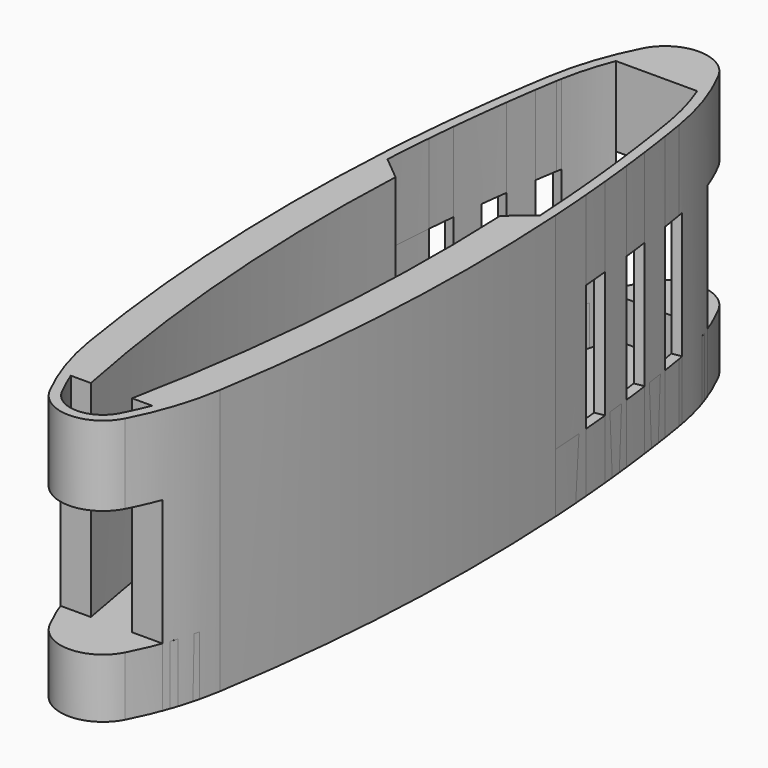
from build123d import *

# Parameters (mm, degrees)
F1_DEPTH = 220
F2_DEPTH = 670
F3_DEPTH = 2100
F5_DEPTH = 900


with BuildPart() as f1:
    # F0 (on Top) → F1 (new body)
    with BuildSketch(Plane.XY):
        with BuildLine():
            ThreePointArc((621.8997322987, 3284.9949504715), (554.7027613608, 3572.9276789751), (460.1189717373, 3853.0608540673))
            Line((460.1189717373, 3853.0608540673), (-460.1189717373, 3853.0608540673))
            ThreePointArc((-460.1189717373, 3853.0608540673), (-554.7027613608, 3572.9276789751), (-621.8997322987, 3284.9949504715))
            ThreePointArc((-621.8997322987, 3284.9949504715), (-627.0933489181, 3255.8379162301), (-632.005452174, 3226.6321369914))
            ThreePointArc((-632.005452174, 3226.6321369914), (-651.8181609048, 3102.8193368394), (-670.8553611531, 2978.8849271082))
            ThreePointArc((-670.8553611531, 2978.8849271082), (-696.1273550676, 2805.7176355798), (-719.8853333269, 2632.3361400253))
            ThreePointArc((-719.8853333269, 2632.3361400253), (-739.6622442322, 2478.6018448044), (-758.2488227971, 2324.7191010374))
            ThreePointArc((-758.2488227971, 2324.7191010374), (-777.8017001701, 2150.8131795795), (-795.8343264161, 1976.7430531293))
            ThreePointArc((-795.8343264161, 1976.7430531293), (-810.5353690337, 1822.4406258057), (-824.0418345742, 1668.0290487766))
            ThreePointArc((-824.0418345742, 1668.0290487766), (-844.8250287331, 1397.234776835), (-861.9343859483, 1126.1835846747))
            Line((-861.9343859484, 1126.1835846747), (-591.9620535791, 903.0608540673))
            Line((-591.9620535791, 903.0608540673), (591.9620535791, 903.0608540673))
            Line((591.9620535791, 903.0608540673), (861.9343859486, 1126.1835846749))
            ThreePointArc((861.9343859483, 1126.183584675), (844.8250287331, 1397.2347768351), (824.0418345742, 1668.0290487766))
            ThreePointArc((824.0418345742, 1668.0290487766), (810.5353690337, 1822.4406258057), (795.8343264161, 1976.7430531293))
            ThreePointArc((795.8343264161, 1976.7430531293), (777.8017001701, 2150.8131795795), (758.2488227971, 2324.7191010374))
            ThreePointArc((758.2488227971, 2324.7191010374), (739.6622442322, 2478.6018448044), (719.8853333269, 2632.3361400253))
            ThreePointArc((719.8853333269, 2632.3361400253), (696.1273550676, 2805.7176355798), (670.8553611531, 2978.8849271082))
            ThreePointArc((670.8553611531, 2978.8849271082), (651.8181609048, 3102.8193368394), (632.005452174, 3226.6321369914))
            ThreePointArc((632.005452174, 3226.6321369914), (627.0933489181, 3255.8379162301), (621.8997322987, 3284.9949504715))
        make_face()
    extrude(amount=F1_DEPTH)


with BuildPart() as f2:
    # F0 (on Top) → F2 (new body)
    with BuildSketch(Plane.XY):
        with BuildLine():
            ThreePointArc((932.9102875589, 1686.1332076133), (919.3382769884, 1840.5390246731), (904.5782583769, 1994.8358090316))
            Line((904.5782583769, 1994.8358090316), (795.8343264161, 1976.7430531293))
            ThreePointArc((795.8343264161, 1976.7430531293), (810.5353690337, 1822.4406258057), (824.0418345742, 1668.0290487766))
            Line((824.0418345742, 1668.0290487766), (932.9102875589, 1686.1332076133))
        make_face()
        with BuildLine():
            ThreePointArc((866.8837142995, 2342.8000620043), (848.2595138062, 2496.678244242), (828.4515159458, 2650.4085243874))
            Line((828.4515159458, 2650.4085243874), (719.8853333269, 2632.3361400253))
            ThreePointArc((719.8853333269, 2632.3361400253), (739.6622442322, 2478.6018448044), (758.2488227971, 2324.7191010374))
            Line((758.2488227971, 2324.7191010374), (866.8837142995, 2342.8000620043))
        make_face()
        with BuildLine():
            ThreePointArc((904.5782583769, 1994.8358090316), (886.4869342001, 2168.8998264299), (866.8837142995, 2342.8000620043))
            Line((866.8837142995, 2342.8000620043), (758.2488227971, 2324.7191010374))
            ThreePointArc((758.2488227971, 2324.7191010374), (777.8017001701, 2150.8131795795), (795.8343264161, 1976.7430531293))
            Line((795.8343264161, 1976.7430531293), (904.5782583769, 1994.8358090316))
        make_face()
        with BuildLine():
            ThreePointArc((967.0534788527, 1213.0608540673), (951.3746530161, 1449.6975516289), (932.9102875589, 1686.1332076133))
            Line((932.9102875589, 1686.1332076133), (824.0418345742, 1668.0290487766))
            ThreePointArc((824.0418345742, 1668.0290487766), (844.8250287331, 1397.2347768351), (861.9343859483, 1126.183584675))
            Line((861.9343859486, 1126.1835846749), (967.0534788527, 1213.0608540673))
        make_face()
        with BuildLine():
            ThreePointArc((1003.6214289231, 0), (994.4773654434, 606.8059514051), (967.0534788527, 1213.0608540673))
            Line((967.0534788527, 1213.0608540673), (861.9343859486, 1126.1835846749))
            ThreePointArc((861.9343859483, 1126.183584675), (867.8959286407, 1014.804983353), (873.2371204275, 903.3949097778))
            ThreePointArc((873.2371204275, 903.3949097778), (873.2446612394, 903.227881954), (873.2522006569, 903.0608540673))
            ThreePointArc((873.2522006569, 903.0608540673), (888.5284743275, 451.6452733088), (893.6214289231, 0))
            ThreePointArc((893.6214289231, 0), (828.1102951716, -1618.6103504825), (632.005452174, -3226.6321369914))
            ThreePointArc((632.005452174, -3226.6321369914), (562.6771304341, -3544.4054817031), (460.1189717373, -3853.0608540673))
            Line((460.1189717373, -3853.0608540673), (577.9652355071, -3853.0608540673))
            ThreePointArc((577.9652355071, -3853.0608540673), (674.3794522246, -3552.7440603031), (740.5686182004, -3244.3532820534))
            ThreePointArc((740.5686182004, -3244.3532820534), (937.7504982517, -1627.5), (1003.6214289231, 0))
        make_face()
        with BuildLine():
            ThreePointArc((873.2371204275, 903.3949097778), (867.8959286407, 1014.804983353), (861.9343859483, 1126.183584675))
            Line((861.9343859486, 1126.1835846749), (591.9620535791, 903.0608540673))
            Line((591.9620535791, 903.0608540673), (873.2522006568, 903.0608540673))
            ThreePointArc((873.2522006569, 903.0608540673), (873.2446612394, 903.227881954), (873.2371204275, 903.3949097778))
        make_face()
        with BuildLine():
            Line((873.2522006568, 903.0608540673), (591.9620535791, 903.0608540673))
            ThreePointArc((591.9620535791, 903.0608540673), (607.455909496, 451.648568009), (612.6214289231, 0))
            ThreePointArc((612.6214289231, 0), (517.506537471, -1935.8545319439), (233.0781109131, -3853.0608540673))
            Line((233.0781109131, -3853.0608540673), (460.1189717373, -3853.0608540673))
            ThreePointArc((460.1189717373, -3853.0608540673), (562.6771304341, -3544.4054817031), (632.005452174, -3226.6321369914))
            ThreePointArc((632.005452174, -3226.6321369914), (828.1102951716, -1618.6103504825), (893.6214289231, 0))
            ThreePointArc((893.6214289231, 0), (888.5284743275, 451.6452733088), (873.2522006569, 903.0608540673))
        make_face()
        with BuildLine():
            ThreePointArc((612.6214289231, 0), (607.455909496, 451.648568009), (591.9620535791, 903.0608540673))
            Line((591.9620535791, 903.0608540673), (-591.9620535791, 903.0608540673))
            ThreePointArc((-591.9620535791, 903.0608540673), (-607.455909496, 451.648568009), (-612.6214289231, 0))
            ThreePointArc((-612.6214289231, 0), (-517.506537471, -1935.8545319439), (-233.0781109131, -3853.0608540673))
            Line((-233.0781109131, -3853.0608540673), (233.0781109131, -3853.0608540673))
            ThreePointArc((233.0781109131, -3853.0608540673), (517.506537471, -1935.8545319439), (612.6214289231, 0))
        make_face()
        with BuildLine():
            ThreePointArc((-612.6214289231, 0), (-607.455909496, 451.648568009), (-591.9620535791, 903.0608540673))
            Line((-591.9620535791, 903.0608540673), (-873.2522006568, 903.0608540673))
            ThreePointArc((-873.2522006568, 903.0608540673), (-888.5284743275, 451.6452733088), (-893.6214289231, 0))
            ThreePointArc((-893.6214289231, 0), (-828.1102951716, -1618.6103504825), (-632.005452174, -3226.6321369914))
            ThreePointArc((-632.005452174, -3226.6321369914), (-562.6771304341, -3544.4054817031), (-460.1189717373, -3853.0608540673))
            Line((-460.1189717373, -3853.0608540673), (-233.0781109131, -3853.0608540673))
            ThreePointArc((-233.0781109131, -3853.0608540673), (-517.506537471, -1935.8545319439), (-612.6214289231, 0))
        make_face()
        with BuildLine():
            Line((-591.9620535791, 903.0608540673), (-861.9343859484, 1126.1835846747))
            ThreePointArc((-861.9343859483, 1126.1835846747), (-867.9043995001, 1014.6380001132), (-873.2522006568, 903.0608540673))
            Line((-873.2522006568, 903.0608540673), (-591.9620535791, 903.0608540673))
        make_face()
        with BuildLine():
            Line((-861.9343859484, 1126.1835846747), (-967.0534788527, 1213.0608540673))
            ThreePointArc((-967.0534788527, 1213.0608540673), (-994.4773654434, 606.8059514051), (-1003.6214289231, 0))
            ThreePointArc((-1003.6214289231, 0), (-937.7504982517, -1627.5), (-740.5686182004, -3244.3532820534))
            ThreePointArc((-740.5686182004, -3244.3532820534), (-674.3794522246, -3552.7440603031), (-577.9652355071, -3853.0608540673))
            Line((-577.9652355071, -3853.0608540673), (-460.1189717373, -3853.0608540673))
            ThreePointArc((-460.1189717373, -3853.0608540673), (-562.6771304341, -3544.4054817031), (-632.005452174, -3226.6321369914))
            ThreePointArc((-632.005452174, -3226.6321369914), (-828.1102951716, -1618.6103504825), (-893.6214289231, 0))
            ThreePointArc((-893.6214289231, 0), (-888.5284743275, 451.6452733088), (-873.2522006568, 903.0608540673))
            ThreePointArc((-873.2522006568, 903.0608540673), (-867.9043995001, 1014.6380001132), (-861.9343859483, 1126.1835846747))
        make_face()
        with BuildLine():
            ThreePointArc((328.6002639259, -4143.1251552825), (398.1236309127, -3999.7996543197), (460.1189717373, -3853.0608540673))
            Line((460.1189717373, -3853.0608540673), (233.0781109131, -3853.0608540673))
            Line((233.0781109131, -3853.0608540673), (-233.0781109131, -3853.0608540673))
            Line((-233.0781109131, -3853.0608540673), (-460.1189717373, -3853.0608540673))
            ThreePointArc((-460.1189717373, -3853.0608540673), (-398.1236309127, -3999.7996543197), (-328.6002639259, -4143.1251552825))
            ThreePointArc((-328.6002639259, -4143.1251552825), (-192.3229166667, -4289.1492842966), (0, -4343.0608540673))
            ThreePointArc((0, -4343.0608540673), (192.3229166667, -4289.1492842966), (328.6002639259, -4143.1251552825))
        make_face()
        with BuildLine():
            ThreePointArc((426.2922342822, -4193.6848124006), (507.12545518, -4025.59777233), (577.9652355071, -3853.0608540673))
            Line((577.9652355071, -3853.0608540673), (460.1189717373, -3853.0608540673))
            ThreePointArc((460.1189717373, -3853.0608540673), (398.1236309127, -3999.7996543197), (328.6002639259, -4143.1251552825))
            ThreePointArc((328.6002639259, -4143.1251552825), (192.3229166667, -4289.1492842966), (0, -4343.0608540673))
            ThreePointArc((0, -4343.0608540673), (-192.3229166667, -4289.1492842966), (-328.6002639259, -4143.1251552825))
            ThreePointArc((-328.6002639259, -4143.1251552825), (-398.1236309127, -3999.7996543197), (-460.1189717373, -3853.0608540673))
            Line((-460.1189717373, -3853.0608540673), (-577.9652355071, -3853.0608540673))
            ThreePointArc((-577.9652355071, -3853.0608540673), (-507.12545518, -4025.59777233), (-426.2922342822, -4193.6848124006))
            ThreePointArc((-426.2922342822, -4193.6848124006), (-249.5, -4383.1215203107), (0, -4453.0608540673))
            ThreePointArc((0, -4453.0608540673), (249.5, -4383.1215203107), (426.2922342822, -4193.6848124006))
        make_face()
        with BuildLine():
            Line((-460.1189717373, 3853.0608540673), (460.1189717373, 3853.0608540673))
            ThreePointArc((460.1189717373, 3853.0608540673), (398.1236309127, 3999.7996543197), (328.6002639259, 4143.1251552825))
            ThreePointArc((328.6002639259, 4143.1251552825), (192.3229166667, 4289.1492842966), (0, 4343.0608540673))
            ThreePointArc((0, 4343.0608540673), (-192.3229166667, 4289.1492842966), (-328.6002639259, 4143.1251552825))
            ThreePointArc((-328.6002639259, 4143.1251552825), (-398.1236309127, 3999.7996543197), (-460.1189717373, 3853.0608540673))
        make_face()
        with BuildLine():
            ThreePointArc((577.9652355071, 3853.0608540673), (507.12545518, 4025.59777233), (426.2922342822, 4193.6848124006))
            ThreePointArc((426.2922342822, 4193.6848124006), (249.5, 4383.1215203107), (0, 4453.0608540673))
            ThreePointArc((0, 4453.0608540673), (-249.5, 4383.1215203107), (-426.2922342822, 4193.6848124006))
            ThreePointArc((-426.2922342822, 4193.6848124006), (-507.12545518, 4025.59777233), (-577.9652355071, 3853.0608540673))
            Line((-577.9652355071, 3853.0608540673), (-460.1189717373, 3853.0608540673))
            ThreePointArc((-460.1189717373, 3853.0608540673), (-398.1236309127, 3999.7996543197), (-328.6002639259, 4143.1251552825))
            ThreePointArc((-328.6002639259, 4143.1251552825), (-192.3229166667, 4289.1492842966), (0, 4343.0608540673))
            ThreePointArc((0, 4343.0608540673), (192.3229166667, 4289.1492842966), (328.6002639259, 4143.1251552825))
            ThreePointArc((328.6002639259, 4143.1251552825), (398.1236309127, 3999.7996543197), (460.1189717373, 3853.0608540673))
            Line((460.1189717373, 3853.0608540673), (577.9652355071, 3853.0608540673))
        make_face()
        with BuildLine():
            ThreePointArc((730.4200806645, 3303.0608540673), (666.5566804597, 3581.4880451882), (577.9652355071, 3853.0608540673))
            Line((577.9652355071, 3853.0608540673), (460.1189717373, 3853.0608540673))
            ThreePointArc((460.1189717373, 3853.0608540673), (554.7027613608, 3572.9276789751), (621.8997322987, 3284.9949504715))
            Line((621.8997322987, 3284.9949504715), (730.4200806645, 3303.0608540673))
        make_face()
        with BuildLine():
            ThreePointArc((740.5686182004, 3244.3532820534), (735.6318405129, 3273.7308355803), (730.4200806645, 3303.0608540673))
            Line((730.4200806645, 3303.0608540673), (621.8997322987, 3284.9949504715))
            ThreePointArc((621.8997322987, 3284.9949504715), (627.0933489181, 3255.8379162301), (632.005452174, 3226.6321369914))
            ThreePointArc((632.005452174, 3226.6321369914), (651.8181609048, 3102.8193368394), (670.8553611531, 2978.8849271082))
            Line((670.8553611531, 2978.8849271082), (779.3753278656, 2996.9507696671))
            ThreePointArc((779.3753278656, 2996.9507696671), (760.3565394873, 3120.7123476355), (740.5686182004, 3244.3532820534))
        make_face()
        with BuildLine():
            ThreePointArc((828.4515159458, 2650.4085243874), (804.6662804742, 2823.7862644143), (779.3753278656, 2996.9507696671))
            Line((779.3753278656, 2996.9507696671), (670.8553611531, 2978.8849271082))
            ThreePointArc((670.8553611531, 2978.8849271082), (696.1273550676, 2805.7176355798), (719.8853333269, 2632.3361400253))
            Line((719.8853333269, 2632.3361400253), (828.4515159458, 2650.4085243874))
        make_face()
        with BuildLine():
            Line((-460.1189717373, 3853.0608540673), (-577.9652355071, 3853.0608540673))
            ThreePointArc((-577.9652355071, 3853.0608540673), (-666.5566804597, 3581.4880451882), (-730.4200806645, 3303.0608540673))
            Line((-730.4200806645, 3303.0608540673), (-621.8997322987, 3284.9949504715))
            ThreePointArc((-621.8997322987, 3284.9949504715), (-554.7027613608, 3572.9276789751), (-460.1189717373, 3853.0608540673))
        make_face()
        with BuildLine():
            Line((-621.8997322987, 3284.9949504715), (-730.4200806645, 3303.0608540673))
            ThreePointArc((-730.4200806645, 3303.0608540673), (-735.6318405129, 3273.7308355803), (-740.5686182004, 3244.3532820534))
            ThreePointArc((-740.5686182004, 3244.3532820534), (-760.3565394873, 3120.7123476355), (-779.3753278656, 2996.9507696671))
            Line((-779.3753278656, 2996.9507696671), (-670.8553611531, 2978.8849271082))
            ThreePointArc((-670.8553611531, 2978.8849271082), (-651.8181609048, 3102.8193368394), (-632.005452174, 3226.6321369914))
            ThreePointArc((-632.005452174, 3226.6321369914), (-627.0933489181, 3255.8379162301), (-621.8997322987, 3284.9949504715))
        make_face()
        with BuildLine():
            Line((-670.8553611531, 2978.8849271082), (-779.3753278656, 2996.9507696671))
            ThreePointArc((-779.3753278656, 2996.9507696671), (-804.6662804742, 2823.7862644143), (-828.4515159458, 2650.4085243874))
            Line((-828.4515159458, 2650.4085243874), (-719.8853333269, 2632.3361400253))
            ThreePointArc((-719.8853333269, 2632.3361400253), (-696.1273550676, 2805.7176355798), (-670.8553611531, 2978.8849271082))
        make_face()
        with BuildLine():
            Line((-719.8853333269, 2632.3361400253), (-828.4515159458, 2650.4085243874))
            ThreePointArc((-828.4515159458, 2650.4085243874), (-848.2595138062, 2496.678244242), (-866.8837142995, 2342.8000620043))
            Line((-866.8837142995, 2342.8000620043), (-758.2488227971, 2324.7191010374))
            ThreePointArc((-758.2488227971, 2324.7191010374), (-739.6622442322, 2478.6018448044), (-719.8853333269, 2632.3361400253))
        make_face()
        with BuildLine():
            Line((-758.2488227971, 2324.7191010374), (-866.8837142995, 2342.8000620043))
            ThreePointArc((-866.8837142995, 2342.8000620043), (-886.4869342001, 2168.8998264299), (-904.5782583769, 1994.8358090316))
            Line((-904.5782583769, 1994.8358090316), (-795.8343264161, 1976.7430531293))
            ThreePointArc((-795.8343264161, 1976.7430531293), (-777.8017001701, 2150.8131795795), (-758.2488227971, 2324.7191010374))
        make_face()
        with BuildLine():
            Line((-795.8343264161, 1976.7430531293), (-904.5782583769, 1994.8358090316))
            ThreePointArc((-904.5782583769, 1994.8358090316), (-919.3382769884, 1840.5390246731), (-932.9102875589, 1686.1332076133))
            Line((-932.9102875589, 1686.1332076133), (-824.0418345742, 1668.0290487766))
            ThreePointArc((-824.0418345742, 1668.0290487766), (-810.5353690337, 1822.4406258057), (-795.8343264161, 1976.7430531293))
        make_face()
        with BuildLine():
            Line((-824.0418345742, 1668.0290487766), (-932.9102875589, 1686.1332076133))
            ThreePointArc((-932.9102875589, 1686.1332076133), (-951.3746530161, 1449.6975516289), (-967.0534788527, 1213.0608540673))
            Line((-967.0534788527, 1213.0608540673), (-861.9343859484, 1126.1835846747))
            ThreePointArc((-861.9343859483, 1126.1835846747), (-844.8250287331, 1397.234776835), (-824.0418345742, 1668.0290487766))
        make_face()
    extrude(amount=F2_DEPTH)


with BuildPart() as f3:
    # F0 (on Top) → F3 (new body)
    with BuildSketch(Plane.XY):
        with BuildLine():
            ThreePointArc((967.0534788527, 1213.0608540673), (951.3746530161, 1449.6975516289), (932.9102875589, 1686.1332076133))
            Line((932.9102875589, 1686.1332076133), (824.0418345742, 1668.0290487766))
            ThreePointArc((824.0418345742, 1668.0290487766), (844.8250287331, 1397.2347768351), (861.9343859483, 1126.183584675))
            Line((861.9343859486, 1126.1835846749), (967.0534788527, 1213.0608540673))
        make_face()
        with BuildLine():
            ThreePointArc((1003.6214289231, 0), (994.4773654434, 606.8059514051), (967.0534788527, 1213.0608540673))
            Line((967.0534788527, 1213.0608540673), (861.9343859486, 1126.1835846749))
            ThreePointArc((861.9343859483, 1126.183584675), (867.8959286407, 1014.804983353), (873.2371204275, 903.3949097778))
            ThreePointArc((873.2371204275, 903.3949097778), (873.2446612394, 903.227881954), (873.2522006569, 903.0608540673))
            ThreePointArc((873.2522006569, 903.0608540673), (888.5284743275, 451.6452733088), (893.6214289231, 0))
            ThreePointArc((893.6214289231, 0), (828.1102951716, -1618.6103504825), (632.005452174, -3226.6321369914))
            ThreePointArc((632.005452174, -3226.6321369914), (562.6771304341, -3544.4054817031), (460.1189717373, -3853.0608540673))
            Line((460.1189717373, -3853.0608540673), (577.9652355071, -3853.0608540673))
            ThreePointArc((577.9652355071, -3853.0608540673), (674.3794522246, -3552.7440603031), (740.5686182004, -3244.3532820534))
            ThreePointArc((740.5686182004, -3244.3532820534), (937.7504982517, -1627.5), (1003.6214289231, 0))
        make_face()
        with BuildLine():
            ThreePointArc((873.2371204275, 903.3949097778), (867.8959286407, 1014.804983353), (861.9343859483, 1126.183584675))
            Line((861.9343859486, 1126.1835846749), (591.9620535791, 903.0608540673))
            Line((591.9620535791, 903.0608540673), (873.2522006568, 903.0608540673))
            ThreePointArc((873.2522006569, 903.0608540673), (873.2446612394, 903.227881954), (873.2371204275, 903.3949097778))
        make_face()
        with BuildLine():
            Line((873.2522006568, 903.0608540673), (591.9620535791, 903.0608540673))
            ThreePointArc((591.9620535791, 903.0608540673), (607.455909496, 451.648568009), (612.6214289231, 0))
            ThreePointArc((612.6214289231, 0), (517.506537471, -1935.8545319439), (233.0781109131, -3853.0608540673))
            Line((233.0781109131, -3853.0608540673), (460.1189717373, -3853.0608540673))
            ThreePointArc((460.1189717373, -3853.0608540673), (562.6771304341, -3544.4054817031), (632.005452174, -3226.6321369914))
            ThreePointArc((632.005452174, -3226.6321369914), (828.1102951716, -1618.6103504825), (893.6214289231, 0))
            ThreePointArc((893.6214289231, 0), (888.5284743275, 451.6452733088), (873.2522006569, 903.0608540673))
        make_face()
    extrude(amount=F3_DEPTH)



with BuildPart() as f3b:
    # F0 (on Top) → F3, piece 2 (new body)
    with BuildSketch(Plane.XY):
        with BuildLine():
            ThreePointArc((-612.6214289231, 0), (-607.455909496, 451.648568009), (-591.9620535791, 903.0608540673))
            Line((-591.9620535791, 903.0608540673), (-873.2522006568, 903.0608540673))
            ThreePointArc((-873.2522006568, 903.0608540673), (-888.5284743275, 451.6452733088), (-893.6214289231, 0))
            ThreePointArc((-893.6214289231, 0), (-828.1102951716, -1618.6103504825), (-632.005452174, -3226.6321369914))
            ThreePointArc((-632.005452174, -3226.6321369914), (-562.6771304341, -3544.4054817031), (-460.1189717373, -3853.0608540673))
            Line((-460.1189717373, -3853.0608540673), (-233.0781109131, -3853.0608540673))
            ThreePointArc((-233.0781109131, -3853.0608540673), (-517.506537471, -1935.8545319439), (-612.6214289231, 0))
        make_face()
        with BuildLine():
            Line((-861.9343859484, 1126.1835846747), (-967.0534788527, 1213.0608540673))
            ThreePointArc((-967.0534788527, 1213.0608540673), (-994.4773654434, 606.8059514051), (-1003.6214289231, 0))
            ThreePointArc((-1003.6214289231, 0), (-937.7504982517, -1627.5), (-740.5686182004, -3244.3532820534))
            ThreePointArc((-740.5686182004, -3244.3532820534), (-674.3794522246, -3552.7440603031), (-577.9652355071, -3853.0608540673))
            Line((-577.9652355071, -3853.0608540673), (-460.1189717373, -3853.0608540673))
            ThreePointArc((-460.1189717373, -3853.0608540673), (-562.6771304341, -3544.4054817031), (-632.005452174, -3226.6321369914))
            ThreePointArc((-632.005452174, -3226.6321369914), (-828.1102951716, -1618.6103504825), (-893.6214289231, 0))
            ThreePointArc((-893.6214289231, 0), (-888.5284743275, 451.6452733088), (-873.2522006568, 903.0608540673))
            ThreePointArc((-873.2522006568, 903.0608540673), (-867.9043995001, 1014.6380001132), (-861.9343859483, 1126.1835846747))
        make_face()
        with BuildLine():
            Line((-591.9620535791, 903.0608540673), (-861.9343859484, 1126.1835846747))
            ThreePointArc((-861.9343859483, 1126.1835846747), (-867.9043995001, 1014.6380001132), (-873.2522006568, 903.0608540673))
            Line((-873.2522006568, 903.0608540673), (-591.9620535791, 903.0608540673))
        make_face()
        with BuildLine():
            Line((-824.0418345742, 1668.0290487766), (-932.9102875589, 1686.1332076133))
            ThreePointArc((-932.9102875589, 1686.1332076133), (-951.3746530161, 1449.6975516289), (-967.0534788527, 1213.0608540673))
            Line((-967.0534788527, 1213.0608540673), (-861.9343859484, 1126.1835846747))
            ThreePointArc((-861.9343859483, 1126.1835846747), (-844.8250287331, 1397.234776835), (-824.0418345742, 1668.0290487766))
        make_face()
    extrude(amount=F3_DEPTH)


with BuildPart() as f3c:
    # F0 (on Top) → F3, piece 3 (new body)
    with BuildSketch(Plane.XY):
        with BuildLine():
            ThreePointArc((904.5782583769, 1994.8358090316), (886.4869342001, 2168.8998264299), (866.8837142995, 2342.8000620043))
            Line((866.8837142995, 2342.8000620043), (758.2488227971, 2324.7191010374))
            ThreePointArc((758.2488227971, 2324.7191010374), (777.8017001701, 2150.8131795795), (795.8343264161, 1976.7430531293))
            Line((795.8343264161, 1976.7430531293), (904.5782583769, 1994.8358090316))
        make_face()
    extrude(amount=F3_DEPTH)


with BuildPart() as f3d:
    # F0 (on Top) → F3, piece 4 (new body)
    with BuildSketch(Plane.XY):
        with BuildLine():
            ThreePointArc((828.4515159458, 2650.4085243874), (804.6662804742, 2823.7862644143), (779.3753278656, 2996.9507696671))
            Line((779.3753278656, 2996.9507696671), (670.8553611531, 2978.8849271082))
            ThreePointArc((670.8553611531, 2978.8849271082), (696.1273550676, 2805.7176355798), (719.8853333269, 2632.3361400253))
            Line((719.8853333269, 2632.3361400253), (828.4515159458, 2650.4085243874))
        make_face()
    extrude(amount=F3_DEPTH)


with BuildPart() as f3e:
    # F0 (on Top) → F3, piece 5 (new body)
    with BuildSketch(Plane.XY):
        with BuildLine():
            ThreePointArc((730.4200806645, 3303.0608540673), (666.5566804597, 3581.4880451882), (577.9652355071, 3853.0608540673))
            Line((577.9652355071, 3853.0608540673), (460.1189717373, 3853.0608540673))
            ThreePointArc((460.1189717373, 3853.0608540673), (554.7027613608, 3572.9276789751), (621.8997322987, 3284.9949504715))
            Line((621.8997322987, 3284.9949504715), (730.4200806645, 3303.0608540673))
        make_face()
    extrude(amount=F3_DEPTH)


with BuildPart() as f3f:
    # F0 (on Top) → F3, piece 6 (new body)
    with BuildSketch(Plane.XY):
        with BuildLine():
            Line((-758.2488227971, 2324.7191010374), (-866.8837142995, 2342.8000620043))
            ThreePointArc((-866.8837142995, 2342.8000620043), (-886.4869342001, 2168.8998264299), (-904.5782583769, 1994.8358090316))
            Line((-904.5782583769, 1994.8358090316), (-795.8343264161, 1976.7430531293))
            ThreePointArc((-795.8343264161, 1976.7430531293), (-777.8017001701, 2150.8131795795), (-758.2488227971, 2324.7191010374))
        make_face()
    extrude(amount=F3_DEPTH)


with BuildPart() as f3g:
    # F0 (on Top) → F3, piece 7 (new body)
    with BuildSketch(Plane.XY):
        with BuildLine():
            Line((-670.8553611531, 2978.8849271082), (-779.3753278656, 2996.9507696671))
            ThreePointArc((-779.3753278656, 2996.9507696671), (-804.6662804742, 2823.7862644143), (-828.4515159458, 2650.4085243874))
            Line((-828.4515159458, 2650.4085243874), (-719.8853333269, 2632.3361400253))
            ThreePointArc((-719.8853333269, 2632.3361400253), (-696.1273550676, 2805.7176355798), (-670.8553611531, 2978.8849271082))
        make_face()
    extrude(amount=F3_DEPTH)


with BuildPart() as f3h:
    # F0 (on Top) → F3, piece 8 (new body)
    with BuildSketch(Plane.XY):
        with BuildLine():
            Line((-460.1189717373, 3853.0608540673), (-577.9652355071, 3853.0608540673))
            ThreePointArc((-577.9652355071, 3853.0608540673), (-666.5566804597, 3581.4880451882), (-730.4200806645, 3303.0608540673))
            Line((-730.4200806645, 3303.0608540673), (-621.8997322987, 3284.9949504715))
            ThreePointArc((-621.8997322987, 3284.9949504715), (-554.7027613608, 3572.9276789751), (-460.1189717373, 3853.0608540673))
        make_face()
    extrude(amount=F3_DEPTH)


with BuildPart() as f3_1:
    add(f3.part)

    add(f3b.part)  # F5 merges F3b

    add(f3c.part)  # F5 merges F3c

    add(f3d.part)  # F5 merges F3d

    add(f3e.part)  # F5 merges F3e

    add(f3f.part)  # F5 merges F3f

    add(f3g.part)  # F5 merges F3g

    add(f3h.part)  # F5 merges F3h
    # F4 (on face) → F5 (join)
    with BuildSketch(Plane.XY.offset(2100)):
        with BuildLine():
            Line((873.2522006568, 903.0608540673), (591.9620535791, 903.0608540673))
            ThreePointArc((591.9620535791, 903.0608540673), (607.455909496, 451.648568009), (612.6214289231, 0))
            ThreePointArc((612.6214289231, 0), (517.506537471, -1935.8545319439), (233.0781109131, -3853.0608540673))
            Line((233.0781109129, -3853.0608540673), (460.1189717373, -3853.0608540673))
            ThreePointArc((460.1189717373, -3853.0608540673), (562.6771304341, -3544.4054817031), (632.005452174, -3226.6321369914))
            ThreePointArc((632.005452174, -3226.6321369914), (828.1102951716, -1618.6103504825), (893.6214289231, 0))
            ThreePointArc((893.6214289231, 0), (888.5284743275, 451.6452733088), (873.2522006569, 903.0608540673))
        make_face()
        with BuildLine():
            ThreePointArc((1003.6214289231, 0), (994.4773654434, 606.8059514051), (967.0534788527, 1213.0608540673))
            Line((967.0534788527, 1213.0608540673), (861.9343859485, 1126.1835846749))
            ThreePointArc((861.9343859483, 1126.1835846749), (867.8959286407, 1014.8049833529), (873.2371204275, 903.3949097778))
            ThreePointArc((873.2371204275, 903.3949097778), (873.2446612394, 903.227881954), (873.2522006569, 903.0608540673))
            ThreePointArc((873.2522006569, 903.0608540673), (888.5284743275, 451.6452733088), (893.6214289231, 0))
            ThreePointArc((893.6214289231, 0), (828.1102951716, -1618.6103504825), (632.005452174, -3226.6321369914))
            ThreePointArc((632.005452174, -3226.6321369914), (562.6771304341, -3544.4054817031), (460.1189717373, -3853.0608540673))
            Line((460.1189717373, -3853.0608540673), (577.9652355071, -3853.0608540673))
            ThreePointArc((577.9652355071, -3853.0608540673), (674.3794522246, -3552.7440603031), (740.5686182004, -3244.3532820534))
            ThreePointArc((740.5686182004, -3244.3532820534), (937.7504982517, -1627.5), (1003.6214289231, 0))
        make_face()
        with BuildLine():
            ThreePointArc((873.2371204275, 903.3949097778), (867.8959286407, 1014.8049833529), (861.9343859483, 1126.1835846749))
            Line((861.9343859485, 1126.1835846749), (591.9620535791, 903.0608540673))
            Line((591.9620535791, 903.0608540673), (873.2522006568, 903.0608540673))
            ThreePointArc((873.2522006569, 903.0608540673), (873.2446612394, 903.227881954), (873.2371204275, 903.3949097778))
        make_face()
        with BuildLine():
            ThreePointArc((-612.6214289231, 0), (-607.455909496, 451.648568009), (-591.9620535791, 903.0608540673))
            Line((-591.9620535791, 903.0608540673), (-873.2522006568, 903.0608540673))
            ThreePointArc((-873.2522006568, 903.0608540673), (-888.5284743275, 451.6452733088), (-893.6214289231, 0))
            ThreePointArc((-893.6214289231, 0), (-828.1102951716, -1618.6103504825), (-632.005452174, -3226.6321369914))
            ThreePointArc((-632.005452174, -3226.6321369914), (-562.6771304341, -3544.4054817031), (-460.1189717373, -3853.0608540673))
            Line((-460.1189717373, -3853.0608540673), (-233.0781109131, -3853.0608540673))
            ThreePointArc((-233.0781109131, -3853.0608540673), (-517.506537471, -1935.8545319439), (-612.6214289231, 0))
        make_face()
        with BuildLine():
            Line((-861.9343859484, 1126.1835846747), (-967.0534788527, 1213.0608540673))
            ThreePointArc((-967.0534788527, 1213.0608540673), (-994.4773654434, 606.8059514051), (-1003.6214289231, 0))
            ThreePointArc((-1003.6214289231, 0), (-937.7504982517, -1627.5), (-740.5686182004, -3244.3532820534))
            ThreePointArc((-740.5686182004, -3244.3532820534), (-674.3794522246, -3552.7440603031), (-577.9652355071, -3853.0608540673))
            Line((-577.9652355071, -3853.0608540673), (-460.1189717373, -3853.0608540673))
            ThreePointArc((-460.1189717373, -3853.0608540673), (-562.6771304341, -3544.4054817031), (-632.005452174, -3226.6321369914))
            ThreePointArc((-632.005452174, -3226.6321369914), (-828.1102951716, -1618.6103504825), (-893.6214289231, 0))
            ThreePointArc((-893.6214289231, 0), (-888.5284743275, 451.6452733088), (-873.2522006568, 903.0608540673))
            ThreePointArc((-873.2522006568, 903.0608540673), (-867.9043995001, 1014.6380001132), (-861.9343859484, 1126.1835846747))
        make_face()
        with BuildLine():
            Line((-591.9620535791, 903.0608540673), (-861.9343859484, 1126.1835846747))
            ThreePointArc((-861.9343859484, 1126.1835846747), (-867.9043995001, 1014.6380001132), (-873.2522006568, 903.0608540673))
            Line((-873.2522006568, 903.0608540673), (-591.9620535791, 903.0608540673))
        make_face()
        with BuildLine():
            ThreePointArc((426.2922342822, -4193.6848124006), (507.12545518, -4025.59777233), (577.9652355071, -3853.0608540673))
            Line((577.9652355071, -3853.0608540673), (460.1189717373, -3853.0608540673))
            ThreePointArc((460.1189717373, -3853.0608540673), (398.1236309127, -3999.7996543197), (328.6002639259, -4143.1251552825))
            ThreePointArc((328.6002639259, -4143.1251552825), (192.3229166667, -4289.1492842966), (0, -4343.0608540673))
            ThreePointArc((0, -4343.0608540673), (-192.3229166667, -4289.1492842966), (-328.6002639259, -4143.1251552825))
            ThreePointArc((-328.6002639259, -4143.1251552825), (-398.1236309127, -3999.7996543197), (-460.1189717373, -3853.0608540673))
            Line((-460.1189717373, -3853.0608540673), (-577.9652355071, -3853.0608540673))
            ThreePointArc((-577.9652355071, -3853.0608540673), (-507.12545518, -4025.59777233), (-426.2922342822, -4193.6848124006))
            ThreePointArc((-426.2922342822, -4193.6848124006), (-249.5, -4383.1215203107), (0, -4453.0608540673))
            ThreePointArc((0, -4453.0608540673), (249.5, -4383.1215203107), (426.2922342822, -4193.6848124006))
        make_face()
        with BuildLine():
            Line((-824.0418345742, 1668.0290487766), (-932.9102875589, 1686.1332076133))
            ThreePointArc((-932.9102875589, 1686.1332076133), (-951.3746530161, 1449.6975516289), (-967.0534788527, 1213.0608540673))
            Line((-967.0534788527, 1213.0608540673), (-861.9343859484, 1126.1835846747))
            ThreePointArc((-861.9343859484, 1126.1835846747), (-844.8250287331, 1397.234776835), (-824.0418345742, 1668.0290487766))
        make_face()
        with BuildLine():
            Line((-795.8343264161, 1976.7430531293), (-904.5782583769, 1994.8358090316))
            ThreePointArc((-904.5782583769, 1994.8358090316), (-919.3382769884, 1840.5390246731), (-932.9102875589, 1686.1332076133))
            Line((-932.9102875589, 1686.1332076133), (-824.0418345742, 1668.0290487766))
            ThreePointArc((-824.0418345742, 1668.0290487766), (-810.5353690337, 1822.4406258057), (-795.8343264161, 1976.7430531293))
        make_face()
        with BuildLine():
            Line((-758.2488227971, 2324.7191010374), (-866.8837142995, 2342.8000620043))
            ThreePointArc((-866.8837142995, 2342.8000620043), (-886.4869342001, 2168.8998264299), (-904.5782583769, 1994.8358090316))
            Line((-904.5782583769, 1994.8358090316), (-795.8343264161, 1976.7430531293))
            ThreePointArc((-795.8343264161, 1976.7430531293), (-777.8017001701, 2150.8131795795), (-758.2488227971, 2324.7191010374))
        make_face()
        with BuildLine():
            Line((-719.8853333269, 2632.3361400253), (-828.4515159458, 2650.4085243874))
            ThreePointArc((-828.4515159458, 2650.4085243874), (-848.2595138062, 2496.678244242), (-866.8837142995, 2342.8000620043))
            Line((-866.8837142995, 2342.8000620043), (-758.2488227971, 2324.7191010374))
            ThreePointArc((-758.2488227971, 2324.7191010374), (-739.6622442322, 2478.6018448044), (-719.8853333269, 2632.3361400253))
        make_face()
        with BuildLine():
            Line((-670.8553611531, 2978.8849271082), (-779.3753278656, 2996.9507696671))
            ThreePointArc((-779.3753278656, 2996.9507696671), (-804.6662804742, 2823.7862644143), (-828.4515159458, 2650.4085243874))
            Line((-828.4515159458, 2650.4085243874), (-719.8853333269, 2632.3361400253))
            ThreePointArc((-719.8853333269, 2632.3361400253), (-696.1273550676, 2805.7176355798), (-670.8553611531, 2978.8849271082))
        make_face()
        with BuildLine():
            ThreePointArc((967.0534788527, 1213.0608540673), (951.3746530161, 1449.6975516289), (932.9102875589, 1686.1332076133))
            Line((932.9102875589, 1686.1332076133), (824.0418345742, 1668.0290487766))
            ThreePointArc((824.0418345742, 1668.0290487766), (844.8250287331, 1397.2347768351), (861.9343859483, 1126.1835846749))
            Line((861.9343859485, 1126.1835846749), (967.0534788527, 1213.0608540673))
        make_face()
        with BuildLine():
            ThreePointArc((932.9102875589, 1686.1332076133), (919.3382769884, 1840.5390246731), (904.5782583769, 1994.8358090316))
            Line((904.5782583769, 1994.8358090316), (795.8343264161, 1976.7430531293))
            ThreePointArc((795.8343264161, 1976.7430531293), (810.5353690337, 1822.4406258057), (824.0418345742, 1668.0290487766))
            Line((824.0418345742, 1668.0290487766), (932.9102875589, 1686.1332076133))
        make_face()
        with BuildLine():
            ThreePointArc((904.5782583769, 1994.8358090316), (886.4869342001, 2168.8998264299), (866.8837142995, 2342.8000620043))
            Line((866.8837142995, 2342.8000620043), (758.2488227971, 2324.7191010374))
            ThreePointArc((758.2488227971, 2324.7191010374), (777.8017001701, 2150.8131795795), (795.8343264161, 1976.7430531293))
            Line((795.8343264161, 1976.7430531293), (904.5782583769, 1994.8358090316))
        make_face()
        with BuildLine():
            ThreePointArc((866.8837142995, 2342.8000620043), (848.2595138062, 2496.678244242), (828.4515159458, 2650.4085243874))
            Line((828.4515159458, 2650.4085243874), (719.8853333269, 2632.3361400253))
            ThreePointArc((719.8853333269, 2632.3361400253), (739.6622442322, 2478.6018448044), (758.2488227971, 2324.7191010374))
            Line((758.2488227971, 2324.7191010374), (866.8837142995, 2342.8000620043))
        make_face()
        with BuildLine():
            ThreePointArc((828.4515159458, 2650.4085243874), (804.6662804742, 2823.7862644143), (779.3753278656, 2996.9507696671))
            Line((779.3753278656, 2996.9507696671), (670.8553611531, 2978.8849271082))
            ThreePointArc((670.8553611531, 2978.8849271082), (696.1273550676, 2805.7176355798), (719.8853333269, 2632.3361400253))
            Line((719.8853333269, 2632.3361400253), (828.4515159458, 2650.4085243874))
        make_face()
        with BuildLine():
            ThreePointArc((740.5686182004, 3244.3532820534), (735.6318405129, 3273.7308355803), (730.4200806645, 3303.0608540673))
            Line((730.4200806645, 3303.0608540673), (621.8997322987, 3284.9949504715))
            ThreePointArc((621.8997322987, 3284.9949504715), (627.0933489181, 3255.8379162302), (632.005452174, 3226.6321369914))
            ThreePointArc((632.005452174, 3226.6321369914), (651.8181609048, 3102.8193368394), (670.8553611531, 2978.8849271082))
            Line((670.8553611531, 2978.8849271082), (779.3753278656, 2996.9507696671))
            ThreePointArc((779.3753278656, 2996.9507696671), (760.3565394873, 3120.7123476355), (740.5686182004, 3244.3532820534))
        make_face()
        with BuildLine():
            ThreePointArc((730.4200806645, 3303.0608540673), (666.5566804597, 3581.4880451882), (577.9652355071, 3853.0608540673))
            Line((577.9652355071, 3853.0608540673), (460.1189717373, 3853.0608540673))
            ThreePointArc((460.1189717373, 3853.0608540673), (554.7027613608, 3572.9276789751), (621.8997322987, 3284.9949504715))
            Line((621.8997322987, 3284.9949504715), (730.4200806645, 3303.0608540673))
        make_face()
        with BuildLine():
            Line((-621.8997322987, 3284.9949504715), (-730.4200806645, 3303.0608540673))
            ThreePointArc((-730.4200806645, 3303.0608540673), (-735.6318405129, 3273.7308355803), (-740.5686182004, 3244.3532820534))
            ThreePointArc((-740.5686182004, 3244.3532820534), (-760.3565394873, 3120.7123476355), (-779.3753278656, 2996.9507696671))
            Line((-779.3753278656, 2996.9507696671), (-670.8553611531, 2978.8849271082))
            ThreePointArc((-670.8553611531, 2978.8849271082), (-651.8181609048, 3102.8193368394), (-632.005452174, 3226.6321369914))
            ThreePointArc((-632.005452174, 3226.6321369914), (-627.0933489181, 3255.8379162302), (-621.8997322987, 3284.9949504715))
        make_face()
        with BuildLine():
            Line((-460.1189717373, 3853.0608540673), (-577.9652355071, 3853.0608540673))
            ThreePointArc((-577.9652355071, 3853.0608540673), (-666.5566804597, 3581.4880451882), (-730.4200806645, 3303.0608540673))
            Line((-730.4200806645, 3303.0608540673), (-621.8997322987, 3284.9949504715))
            ThreePointArc((-621.8997322987, 3284.9949504715), (-554.7027613608, 3572.9276789751), (-460.1189717373, 3853.0608540673))
        make_face()
        with BuildLine():
            Line((-460.1189717373, 3853.0608540673), (460.1189717373, 3853.0608540673))
            ThreePointArc((460.1189717373, 3853.0608540673), (398.1236309127, 3999.7996543197), (328.6002639259, 4143.1251552826))
            ThreePointArc((328.6002639259, 4143.1251552825), (192.3229166667, 4289.1492842966), (0, 4343.0608540673))
            ThreePointArc((0, 4343.0608540673), (-192.3229166667, 4289.1492842966), (-328.6002639259, 4143.1251552825))
            ThreePointArc((-328.6002639259, 4143.1251552826), (-398.1236309127, 3999.7996543197), (-460.1189717373, 3853.0608540673))
        make_face()
        with BuildLine():
            ThreePointArc((577.9652355071, 3853.0608540673), (507.12545518, 4025.59777233), (426.2922342822, 4193.6848124006))
            ThreePointArc((426.2922342822, 4193.6848124006), (249.5, 4383.1215203107), (0, 4453.0608540673))
            ThreePointArc((0, 4453.0608540673), (-249.5, 4383.1215203107), (-426.2922342822, 4193.6848124006))
            ThreePointArc((-426.2922342822, 4193.6848124006), (-507.12545518, 4025.59777233), (-577.9652355071, 3853.0608540673))
            Line((-577.9652355071, 3853.0608540673), (-460.1189717373, 3853.0608540673))
            ThreePointArc((-460.1189717373, 3853.0608540673), (-398.1236309127, 3999.7996543197), (-328.6002639259, 4143.1251552826))
            ThreePointArc((-328.6002639259, 4143.1251552825), (-192.3229166667, 4289.1492842966), (0, 4343.0608540673))
            ThreePointArc((0, 4343.0608540673), (192.3229166667, 4289.1492842966), (328.6002639259, 4143.1251552825))
            ThreePointArc((328.6002639259, 4143.1251552826), (398.1236309127, 3999.7996543197), (460.1189717373, 3853.0608540673))
            Line((460.1189717373, 3853.0608540673), (577.9652355071, 3853.0608540673))
        make_face()
    extrude(amount=F5_DEPTH)


solid = Compound([f1.part, f2.part, f3_1.part])
